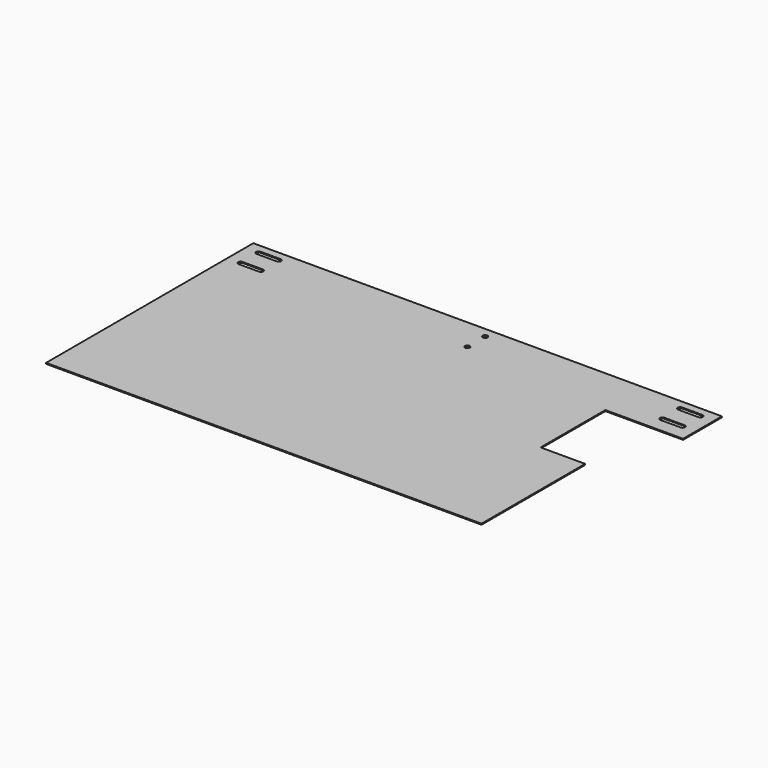
from build123d import *

# Parameters (mm, degrees)
F0_R     = 6
F1_DEPTH = 2.5


with BuildPart() as f1:
    # F0 (on Top) → F1 (new body)
    with BuildSketch(Plane.XY):
        Polygon((0, 640), (0, 0), (1076, 0), (1076, 320), (966, 320), (966, 520), (1158, 520), (1158, 640), align=None)
        with BuildLine():
            ThreePointArc((33, 554), (27, 560), (33, 566))
            Line((33, 566), (83, 566))
            ThreePointArc((83, 566), (89, 560), (83, 554))
            Line((83, 554), (33, 554))
        make_face(mode=Mode.SUBTRACT)
        with BuildLine():
            ThreePointArc((33, 609), (27, 615), (33, 621))
            Line((33, 621), (83, 621))
            ThreePointArc((83, 621), (89, 615), (83, 609))
            Line((83, 609), (33, 609))
        make_face(mode=Mode.SUBTRACT)
        with Locations((593, 560)):
            Circle(F0_R, mode=Mode.SUBTRACT)
        with Locations((593, 615)):
            Circle(F0_R, mode=Mode.SUBTRACT)
        with BuildLine():
            ThreePointArc((1075, 554), (1069, 560), (1075, 566))
            Line((1075, 566), (1125, 566))
            ThreePointArc((1125, 566), (1131, 560), (1125, 554))
            Line((1125, 554), (1075, 554))
        make_face(mode=Mode.SUBTRACT)
        with BuildLine():
            ThreePointArc((1075, 609), (1069, 615), (1075, 621))
            Line((1075, 621), (1125, 621))
            ThreePointArc((1125, 621), (1131, 615), (1125, 609))
            Line((1125, 609), (1075, 609))
        make_face(mode=Mode.SUBTRACT)
    extrude(amount=F1_DEPTH)


solid = f1.part
